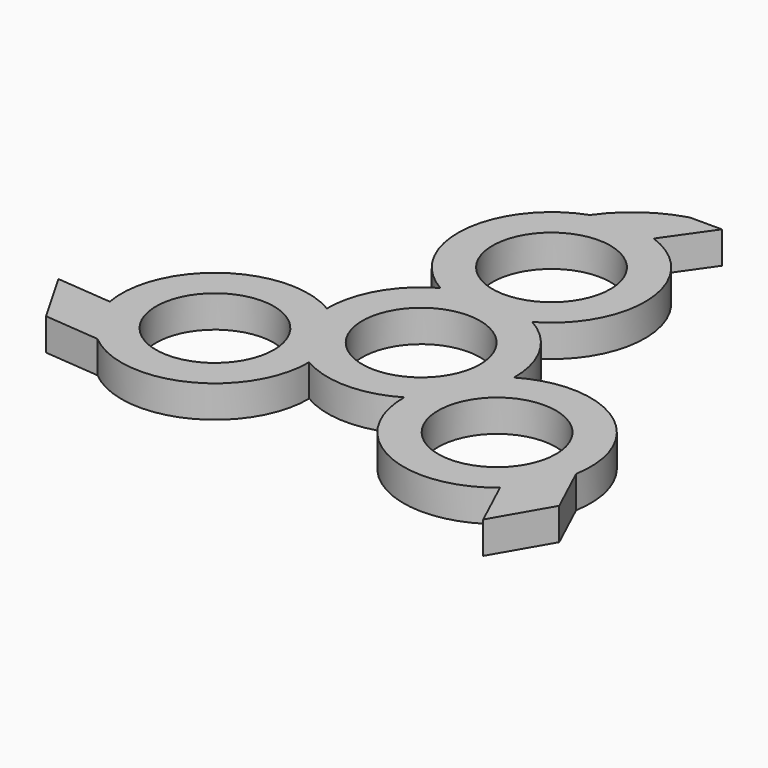
from build123d import *

# Parameters (mm, degrees)
F0_R     = 11.025
F1_DEPTH = 6


with BuildPart() as f1:
    # F0 (on Top) → F1 (new body)
    with BuildSketch(Plane.XY):
        with BuildLine():
            ThreePointArc((17.499169, -0.17055), (15.155445, 8.75), (8.601884, 15.24))
            ThreePointArc((8.601884, 15.24), (17.113746, 26.823541), (14.078777, 40.874134))
            ThreePointArc((14.078777, 40.874134), (10.468516, 44.503558), (5.962434, 46.932945))
            Line((5.962434, 46.932945), (11.924867, 55.435569))
            Line((11.924867, 55.435569), (5.909183, 55.435569))
            ThreePointArc((5.909183, 55.435569), (-0.751379, 52.19618), (-5.962434, 46.932945))
            ThreePointArc((-5.962434, 46.932945), (-17.439625, 31.932406), (-8.601884, 15.24))
            ThreePointArc((-8.601884, 15.24), (-15.155445, 8.75), (-17.499169, -0.17055))
            ThreePointArc((-17.499169, -0.17055), (-36.374087, -0.863045), (-43.626339, -18.302853))
            Line((-43.626339, -18.302853), (-53.971044, -17.390546))
            Line((-53.971044, -17.390546), (-48.008611, -27.717784))
            Line((-48.008611, -27.717784), (-37.663906, -28.630091))
            ThreePointArc((-37.663906, -28.630091), (-18.934462, -31.069361), (-8.897285, -15.06945))
            ThreePointArc((-8.897285, -15.06945), (0, -17.5), (8.897285, -15.06945))
            ThreePointArc((8.897285, -15.06945), (18.934462, -31.069361), (37.663906, -28.630091))
            Line((37.663906, -28.630091), (42.046177, -38.045022))
            Line((42.046177, -38.045022), (48.008611, -27.717784))
            Line((48.008611, -27.717784), (43.626339, -18.302853))
            ThreePointArc((43.626339, -18.302853), (36.374087, -0.863045), (17.499169, -0.17055))
        make_face()
        with Locations((-26.396454, -15.24)):
            Circle(F0_R, mode=Mode.SUBTRACT)
        with Locations((26.396454, -15.24)):
            Circle(F0_R, mode=Mode.SUBTRACT)
        Circle(F0_R, mode=Mode.SUBTRACT)
        with Locations((0, 30.48)):
            Circle(F0_R, mode=Mode.SUBTRACT)
    extrude(amount=F1_DEPTH)


solid = f1.part
